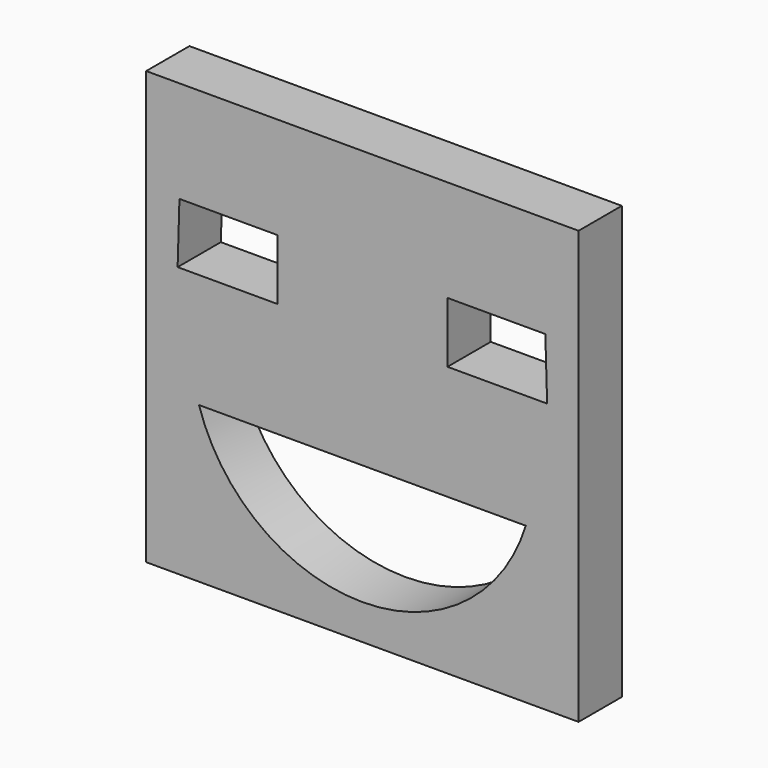
from build123d import *

# Parameters (mm, degrees)
F0_W     = 40
F0_H     = 40
F1_DEPTH = 5


with BuildPart() as f1:
    # F0 (on Front) → F1 (new body)
    with BuildSketch(Plane.XZ):
        with Locations((-32.387403, 30.10224)):
            Rectangle(F0_W, F0_H)
        with BuildLine():
            ThreePointArc((-17.271842, 24.49138), (-32.387402, 13.356916), (-47.502963, 24.49138))
            Line((-47.502963, 24.49138), (-17.271842, 24.49138))
        make_face(mode=Mode.SUBTRACT)
        Polygon((-49.480507, 35.079614), (-49.31048, 40.690474), (-40.260705, 40.690474), (-40.260705, 35.079614), align=None, mode=Mode.SUBTRACT)
        Polygon((-15.464326, 40.690474), (-15.294299, 35.079614), (-24.514101, 35.079614), (-24.514101, 40.690474), align=None, mode=Mode.SUBTRACT)
    extrude(amount=F1_DEPTH)


solid = f1.part
